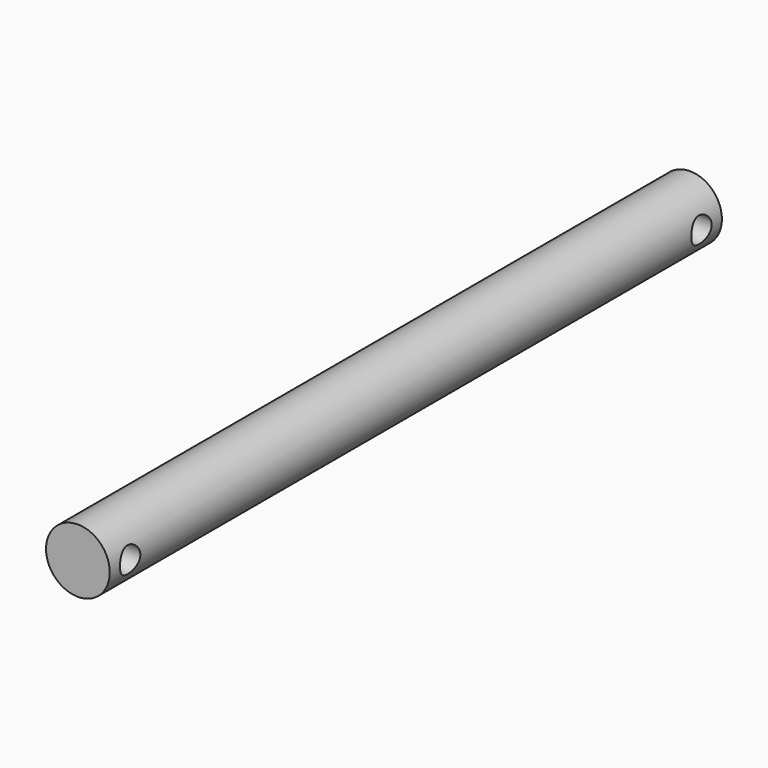
from build123d import *

# Parameters (mm, degrees)
F0_R     = 3.175
F1_DEPTH = 76.2
F2_R     = 1.27
F3_DEPTH = 3.176
F4_DEPTH = 3.176


with BuildPart() as f1:
    # F0 (on Front) → F1 (new body)
    with BuildSketch(Plane.XZ):
        Circle(F0_R)
    extrude(amount=-F1_DEPTH)

    # F2 (on Right) → F3 (cut, through all)
    with BuildSketch(Plane.YZ):
        with Locations((2.54, 0)):
            Circle(F2_R)
        with Locations((73.66, 0)):
            Circle(F2_R)
    extrude(amount=F3_DEPTH, mode=Mode.SUBTRACT)

    # F2 (on Right) → F4 (cut, through all)
    with BuildSketch(Plane.YZ):
        with Locations((2.54, 0)):
            Circle(F2_R)
        with Locations((73.66, 0)):
            Circle(F2_R)
    extrude(amount=-F4_DEPTH, mode=Mode.SUBTRACT)


solid = f1.part
